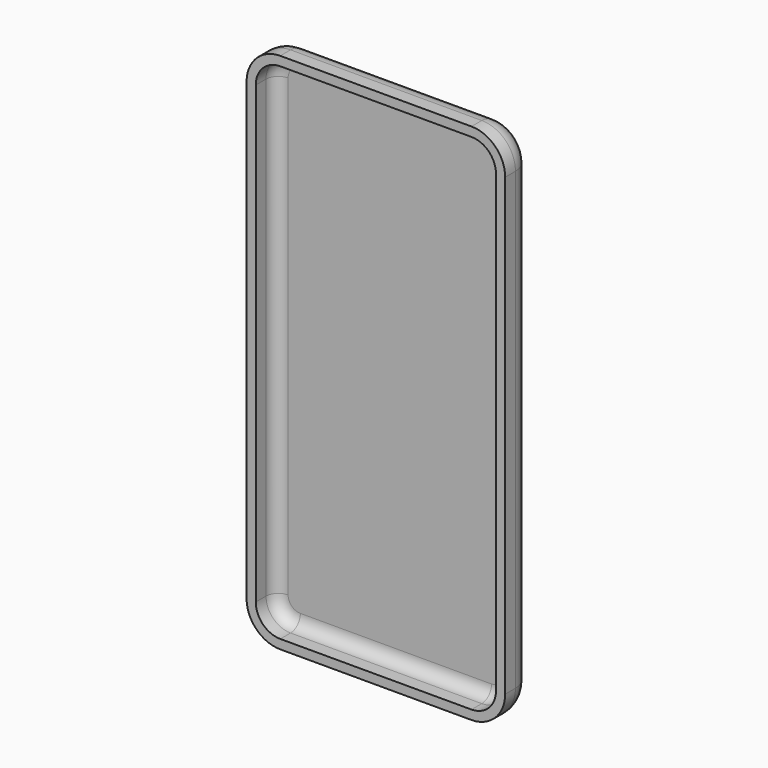
from build123d import *

# Parameters (mm, degrees)
F1_DEPTH = 6.15
F2_R     = 3
F3_T     = 2.25


with BuildPart() as f1:
    # F0 (on Front) → F1 (new body)
    with BuildSketch(Plane.XZ):
        with BuildLine():
            ThreePointArc((-41.975048, 67.910328), (-46.217689, 66.152969), (-47.975048, 61.910328))
            Line((-47.975048, 61.910328), (-47.975048, -49.529672))
            ThreePointArc((-47.975048, -49.529672), (-46.217689, -53.772313), (-41.975048, -55.529672))
            Line((-41.975048, -55.529672), (4.844952, -55.529672))
            ThreePointArc((4.844952, -55.529672), (9.087592, -53.772313), (10.844952, -49.529672))
            Line((10.844952, -49.529672), (10.844952, 61.910328))
            ThreePointArc((10.844952, 61.910328), (9.087592, 66.152969), (4.844952, 67.910328))
            Line((4.844952, 67.910328), (-41.975048, 67.910328))
        make_face()
    extrude(amount=F1_DEPTH)

    # F2
    f2_edges = [f1.edges().sort_by_distance(p)[0] for p in [
        (10.844952, 0, 6.190328),
    ]]
    fillet(f2_edges, radius=F2_R)

    # F3
    f3_openings = [f1.faces().sort_by_distance(p)[0] for p in [
        (-18.565048, -6.15, 6.190328),
    ]]
    offset(amount=F3_T, openings=f3_openings)


solid = f1.part
